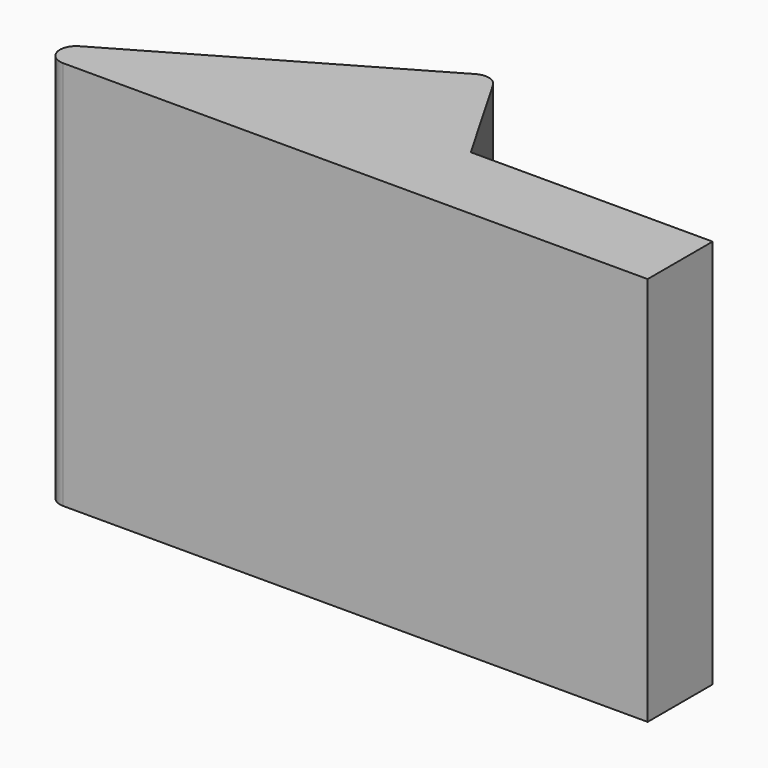
from build123d import *

# Parameters (mm, degrees)
F1_DEPTH = 12
F3_W     = 2.5
F3_H     = 12
F4_DEPTH = 9.464
F5_R     = 0.5


with BuildPart() as f1:
    # F0 (on Top) → F1 (new body)
    with BuildSketch(Plane.XY):
        Polygon((-13.856406, 0), (0, 0), (-3.464102, 6), align=None)
    extrude(amount=F1_DEPTH)

    # F3 (on offset) → F4 (join)
    with BuildSketch(Plane.YZ.offset(-3.4643)):
        with Locations((1.25, 6)):
            Rectangle(F3_W, F3_H)
    extrude(amount=F4_DEPTH)

    # F5
    f5_edges = [f1.edges().sort_by_distance(p)[0] for p in [
        (-3.464102, 6, 6),
        (-13.856406, 0, 6),
    ]]
    fillet(f5_edges, radius=F5_R)


solid = f1.part
